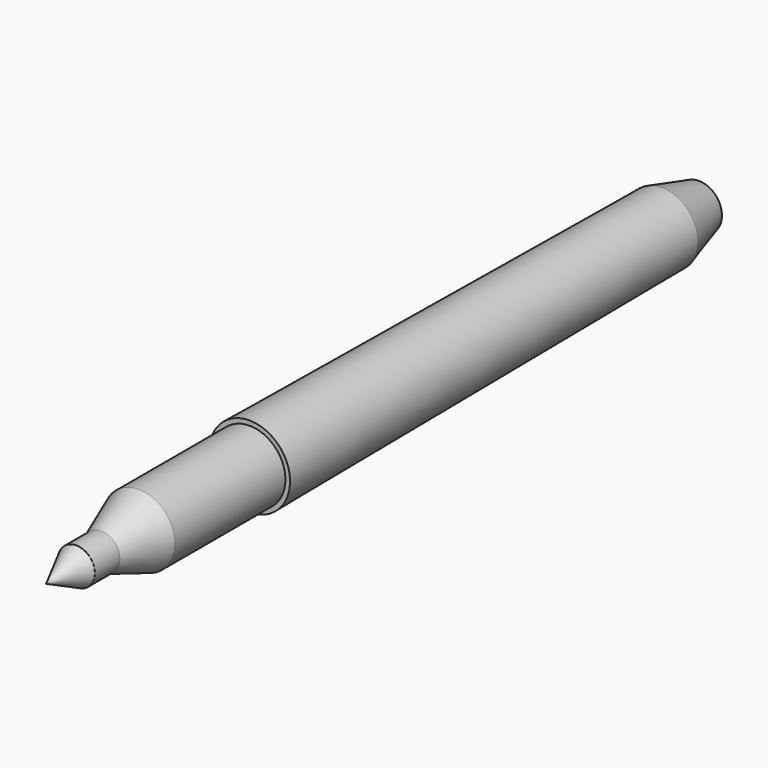
from build123d import *


with BuildPart() as part:
    # Sketch → Revolution (revolve)
    with BuildSketch(Plane.XY):
        Polygon((-3.5, 124), (0, 124), (0, 0), (-2.815, 5.75), (-2.815, 10.5), (-5.45, 17.65), (-5.45, 38.65), (-6.15, 38.65), (-5.45, 117), align=None)
    revolve(axis=Axis((0, 0, 0), (0, 1, 0)))


solid = part.part
